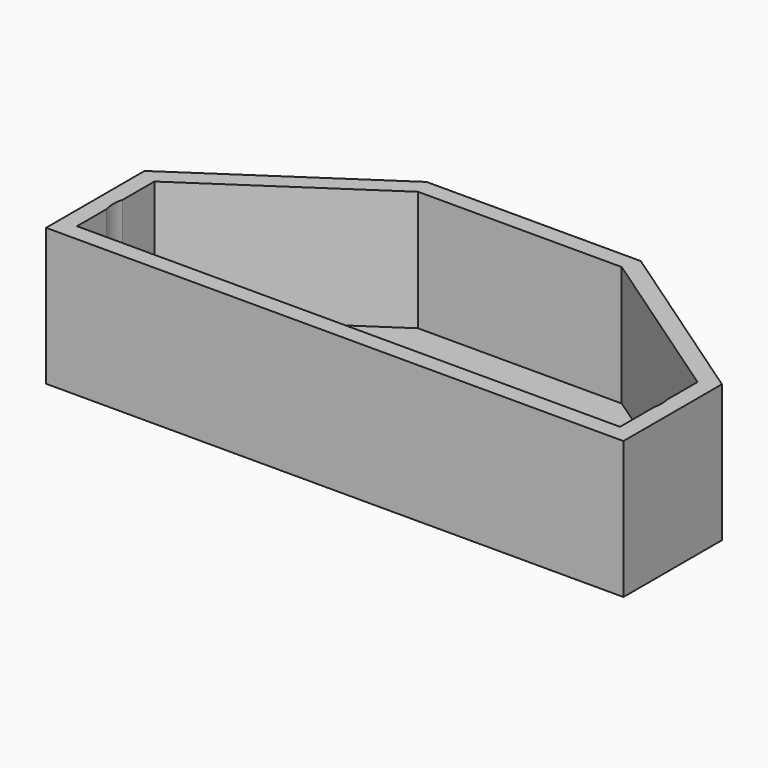
from build123d import *

# Parameters (mm, degrees)
F1_DEPTH = 25.4
F2_DEPTH = 3.175


with BuildPart() as f1:
    # F0 (on Top) → F1 (new body)
    with BuildSketch(Plane.XY):
        Polygon((-53.3932372928, -22.7622538805), (53.3932372928, -22.7622538805), (53.3932372928, 0), (20.1804766856, 22.7622538805), (-19.4478705525, 22.7622538805), (-53.3932372928, 0), align=None)
        with BuildLine():
            Line((50.2182372928, -11.6402664429), (50.2182372928, -19.5872538805))
            Line((50.2182372928, -19.5872538805), (-50.2182372928, -19.5872538805))
            Line((-50.2182372928, -19.5872538805), (-50.2182372928, -12.7441667186))
            ThreePointArc((-50.2182372928, -12.7441667186), (-50.4958895802, -10.8869932592), (-50.2182372928, -9.0298197998))
            Line((-50.2182372928, -9.0298197998), (-50.2182372928, -1.6937240379))
            Line((-50.2182372928, -1.6937240379), (-18.4818985354, 19.5872538805))
            Line((-18.4818985354, 19.5872538805), (19.1969012537, 19.5872538805))
            Line((19.1969012537, 19.5872538805), (50.2182372928, -1.6731145359))
            Line((50.2182372928, -1.6731145359), (50.2182372928, -8.7388372773))
            ThreePointArc((50.2182372928, -8.7388372773), (50.3440488555, -9.459350693), (50.3861723304, -10.1895518601))
            ThreePointArc((50.3861723304, -10.1895518601), (50.3440488555, -10.9197530272), (50.2182372928, -11.6402664429))
        make_face(mode=Mode.SUBTRACT)
    extrude(amount=F1_DEPTH)

    # F0 (on Top) → F2 (join)
    with BuildSketch(Plane.XY):
        with BuildLine():
            Line((-50.2182372928, -19.5872538805), (50.2182372928, -19.5872538805))
            Line((50.2182372928, -19.5872538805), (50.2182372928, -11.6402664429))
            ThreePointArc((50.2182372928, -11.6402664429), (37.6861723304, -10.1895518601), (50.2182372928, -8.7388372773))
            Line((50.2182372928, -8.7388372773), (50.2182372928, -1.6731145359))
            Line((50.2182372928, -1.6731145359), (19.1969012537, 19.5872538805))
            Line((19.1969012537, 19.5872538805), (-18.4818985354, 19.5872538805))
            Line((-18.4818985354, 19.5872538805), (-50.2182372928, -1.6937240379))
            Line((-50.2182372928, -1.6937240379), (-50.2182372928, -9.0298197998))
            ThreePointArc((-50.2182372928, -9.0298197998), (-43.2069827623, -4.6067899196), (-37.7958895802, -10.8869932592))
            ThreePointArc((-37.7958895802, -10.8869932592), (-43.2069827623, -17.1671965988), (-50.2182372928, -12.7441667186))
            Line((-50.2182372928, -12.7441667186), (-50.2182372928, -19.5872538805))
        make_face()
    extrude(amount=F2_DEPTH)


solid = f1.part
